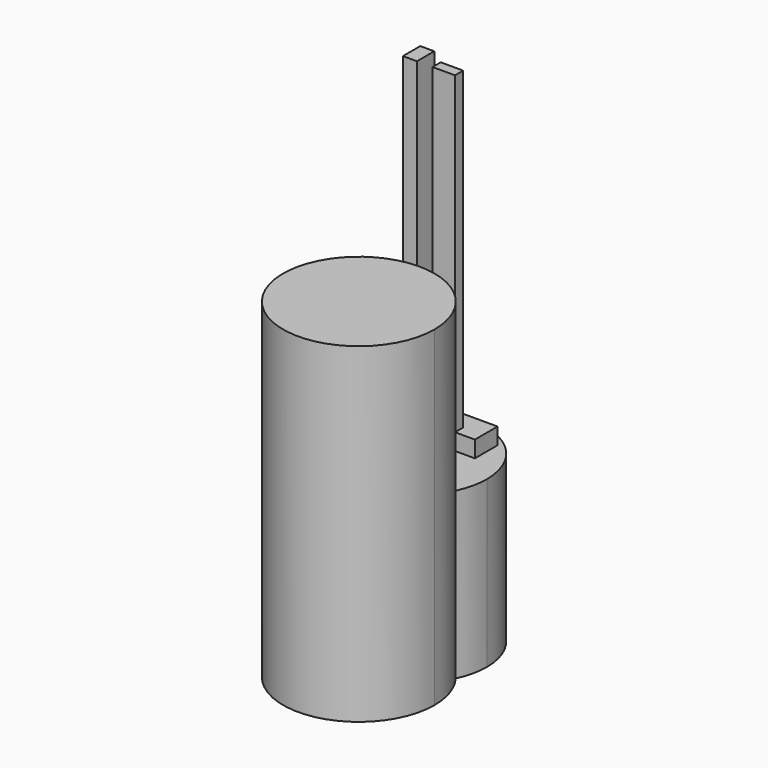
from build123d import *

# Parameters (mm, degrees)
F1_DEPTH = 100
F2_DEPTH = 50
F3_W     = 6.8111047149
F3_H     = 3.6732461303
F3_W_2   = 4.2452551425
F3_H_2   = 4.9546863884
F4_DEPTH = 25
F3_H_3   = 3.0913013034
F3_H_4   = 6.5471306443
F5_DEPTH = 100
F6_DEPTH = 5


with BuildPart() as f1:
    # F0 (on Top) → F1 (new body)
    with BuildSketch(Plane.XY):
        with BuildLine():
            ThreePointArc((-56.0795928311, -23.3514428312), (-43.6321915412, -57.9434272798), (-14.1167279775, -36.0258407891))
            ThreePointArc((-14.1167279775, -36.0258407891), (-15.2963829561, -28.7714614887), (-18.7137881744, -22.2646230493))
            ThreePointArc((-18.7137881744, -22.2646230493), (-37.0660364689, -34.1762047765), (-56.0795928311, -23.3514428312))
        make_face()
        with BuildLine():
            ThreePointArc((-56.0795928311, -23.3514428312), (-37.0660364689, -34.1762047765), (-18.7137881744, -22.2646230493))
            ThreePointArc((-18.7137881744, -22.2646230493), (-37.6778941182, -13.1400092827), (-56.0795928311, -23.3514428312))
        make_face()
    extrude(amount=F1_DEPTH)

    # F0 (on Top) → F2 (join)
    with BuildSketch(Plane.XY):
        with BuildLine():
            ThreePointArc((-56.0795928311, -23.3514428312), (-37.6778941182, -13.1400092827), (-18.7137881744, -22.2646230493))
            ThreePointArc((-18.7137881744, -22.2646230493), (-17.1596431946, -17.8194611389), (-16.6328022762, -13.1400092827))
            ThreePointArc((-16.6328022762, -13.1400092827), (-42.9519082998, 7.2335192543), (-56.0795928311, -23.3514428312))
        make_face()
    extrude(amount=F2_DEPTH)

    # F3 (on face) → F4 (join)
    with BuildSketch(Plane.XY.offset(50)):
        with Locations((-34.9110998213, -8.3837537095)):
            Rectangle(F3_W, F3_H)
        with Locations((-45.1333094388, -9.0244738385)):
            Rectangle(F3_W_2, F3_H_2)
    extrude(amount=F4_DEPTH)

    # F3 (on face) → F5 (join)
    with BuildSketch(Plane.XY.offset(50)):
        with Locations((-34.9110998213, -5.0014799926)):
            Rectangle(F3_W, F3_H_3)
        with Locations((-45.1333094388, -3.2735653222)):
            Rectangle(F3_W_2, F3_H_4)
    extrude(amount=F5_DEPTH)

    # F3 (on face) → F6 (join)
    with BuildSketch(Plane.XY.offset(50)):
        Polygon((-31.5055474639, -6.5471306443), (-25.4983492196, -6.5471306443), (-25.4983492196, 2.0140481647), (-49.141228199, 2.0140481647), (-49.141228199, -6.5471306443), (-47.25593701, -6.5471306443), (-47.25593701, 0), (-43.0106818676, 0), (-43.0106818676, -6.5471306443), (-38.3166521788, -6.5471306443), (-38.3166521788, -3.455829341), (-31.5055474639, -3.455829341), align=None)
    extrude(amount=F6_DEPTH)


solid = f1.part
